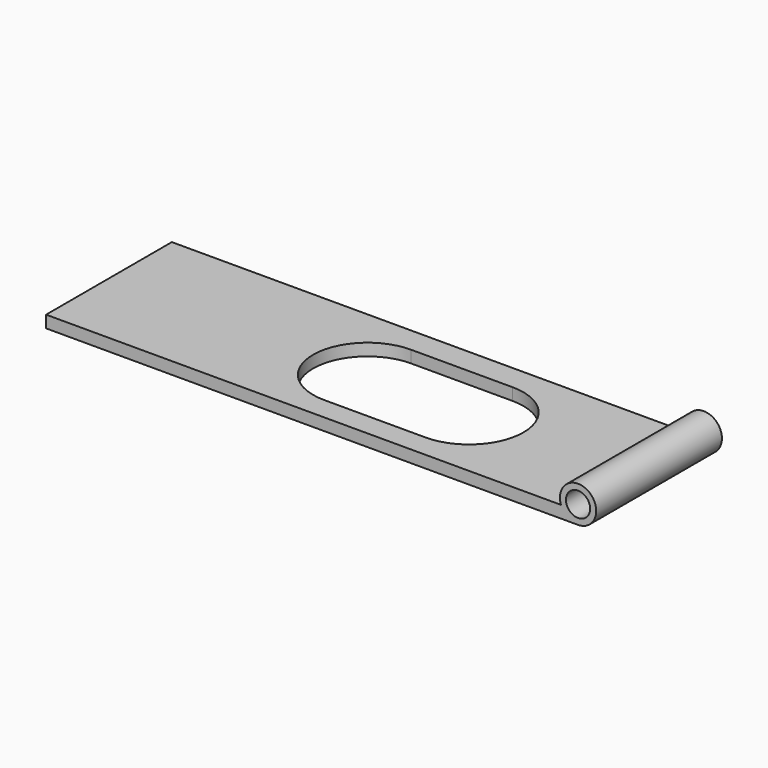
from build123d import *

# Parameters (mm, degrees)
F0_R     = 3.175
F1_DEPTH = 41.275
F3_DEPTH = 3.175


with BuildPart() as f1:
    # F0 (on Front) → F1 (new body)
    with BuildSketch(Plane.XZ):
        with BuildLine():
            Line((-44.45, -1.5875), (95.25, -1.5875))
            ThreePointArc((95.25, -1.5875), (97.999631, 7.063565), (90.759872, 1.5875))
            Line((90.759872, 1.5875), (-44.45, 1.5875))
            Line((-44.45, 1.5875), (-44.45, -1.5875))
        make_face()
        with Locations((95.25, 3.175)):
            Circle(F0_R, mode=Mode.SUBTRACT)
    extrude(amount=F1_DEPTH)

    # F2 (on face) → F3 (cut, through all)
    with BuildSketch(Plane.XY.offset(1.5875)):
        with BuildLine():
            Line((23.71193, -35.253976), (50.374631, -35.253976))
            ThreePointArc((50.374631, -35.253976), (64.662131, -20.966476), (50.374631, -6.678976))
            Line((50.374631, -6.678976), (23.71193, -6.678976))
            ThreePointArc((23.71193, -6.678976), (9.42443, -20.966476), (23.71193, -35.253976))
        make_face()
    extrude(amount=-F3_DEPTH, mode=Mode.SUBTRACT)


solid = f1.part
